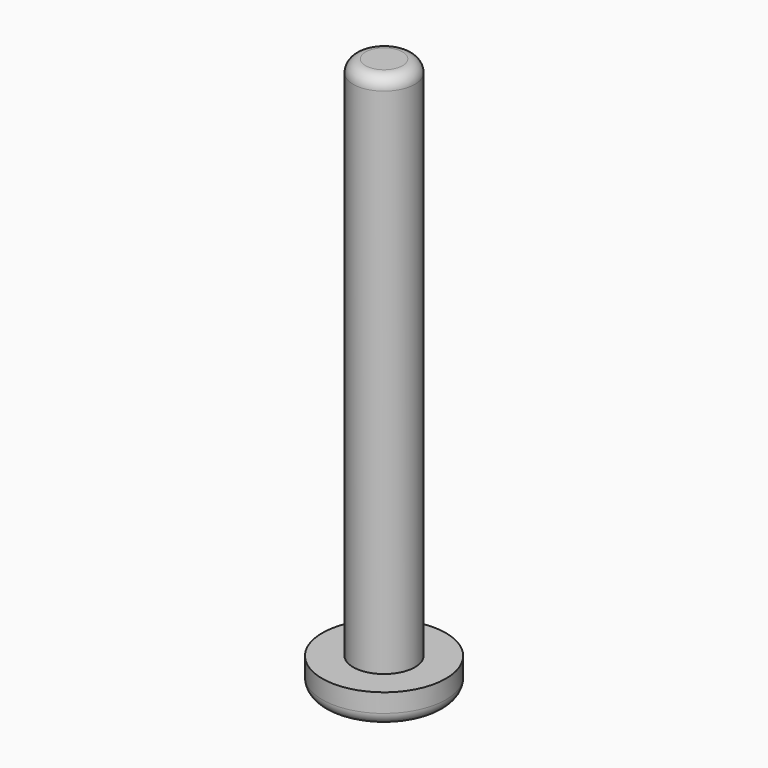
from build123d import *

# Parameters (mm, degrees)
F0_R     = 10
F1_DEPTH = 5
F2_R     = 5
F3_DEPTH = 85
F4_R     = 2


with BuildPart() as f1:
    # F0 (on Top) → F1 (new body)
    with BuildSketch(Plane.XY):
        Circle(F0_R)
        Circle(F0_R)
    extrude(amount=F1_DEPTH)

    # F2 (on face) → F3 (join)
    with BuildSketch(Plane.XY.offset(5)):
        Circle(F2_R)
        Circle(F2_R)
    extrude(amount=F3_DEPTH)

    # F4
    f4_edges = [f1.edges().sort_by_distance(p)[0] for p in [
        (-5, 0, 90),
        (-10, 0, 0),
    ]]
    fillet(f4_edges, radius=F4_R)


solid = f1.part
